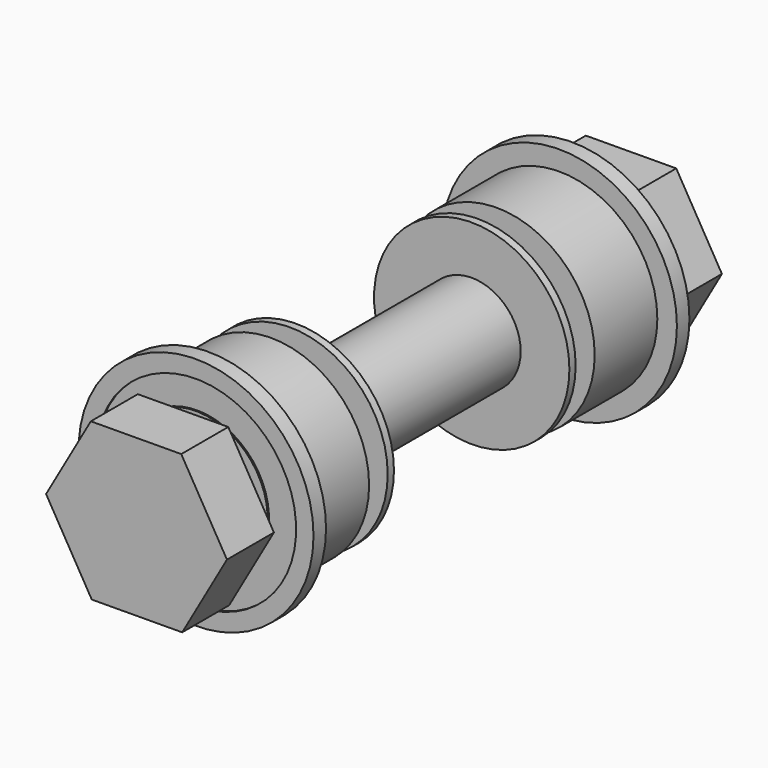
from build123d import *

# Parameters (mm, degrees)
F1_DEPTH  = 4.7625
F2_R      = 3.96875
F3_DEPTH  = 20.32
F4_R      = 4.646824
F5_DEPTH  = 1.27
F6_R      = 9.525
F7_DEPTH  = 1.27
F8_R      = 8.115577
F8_R_2    = 5.810874
F9_DEPTH  = 0.127
F10_R     = 7.9375
F11_DEPTH = 6.35
F12_R     = 4.795683
F13_DEPTH = 1.905
F14_R     = 7.919715
F15_DEPTH = 0.635


with BuildPart() as f1:
    # F0 (on Front) → F1 (new body)
    with BuildSketch(Plane.XZ):
        Polygon((-3.70389, 6.328075), (-7.332219, -0.043625), (-3.628329, -6.3717), (3.70389, -6.328075), (7.332219, 0.043625), (3.628329, 6.3717), align=None)
    extrude(amount=F1_DEPTH)

    # F2 (on face) → F3 (join)
    with BuildSketch(Plane.XZ.offset(4.7625)):
        Circle(F2_R)
    extrude(amount=F3_DEPTH)

    # F4 (on face) → F5 (join)
    with BuildSketch(Plane.XZ.offset(4.7625)):
        with Locations((-0.133895, 0)):
            Circle(F4_R)
    extrude(amount=F5_DEPTH)

    # F6 (on face) → F7 (join)
    with BuildSketch(Plane.XZ.offset(6.0325)):
        Circle(F6_R)
    extrude(amount=F7_DEPTH)

    # F8 (on face) → F9 (cut)
    with BuildSketch(Plane(origin=(0, -6.0325, 0), x_dir=(-1, 0, 0), z_dir=(0, 1, 0))):
        Circle(F8_R)
        Circle(F8_R_2, mode=Mode.SUBTRACT)
    extrude(amount=-F9_DEPTH, mode=Mode.SUBTRACT)

    # F10 (on face) → F11 (join)
    with BuildSketch(Plane.XZ.offset(7.3025)):
        Circle(F10_R)
    extrude(amount=F11_DEPTH)

    # F12 (on face) → F13 (join)
    with BuildSketch(Plane.XZ.offset(13.6525)):
        Circle(F12_R)
    extrude(amount=F13_DEPTH)

    # F14 (on face) → F15 (join)
    with BuildSketch(Plane.XZ.offset(15.5575)):
        Circle(F14_R)
    extrude(amount=F15_DEPTH)

    # F16: F1 across face


with BuildPart() as f1_1:
    add(f1.part)
    add(f1.part.mirror(Plane.XZ.offset(25.0825)))


solid = f1_1.part
